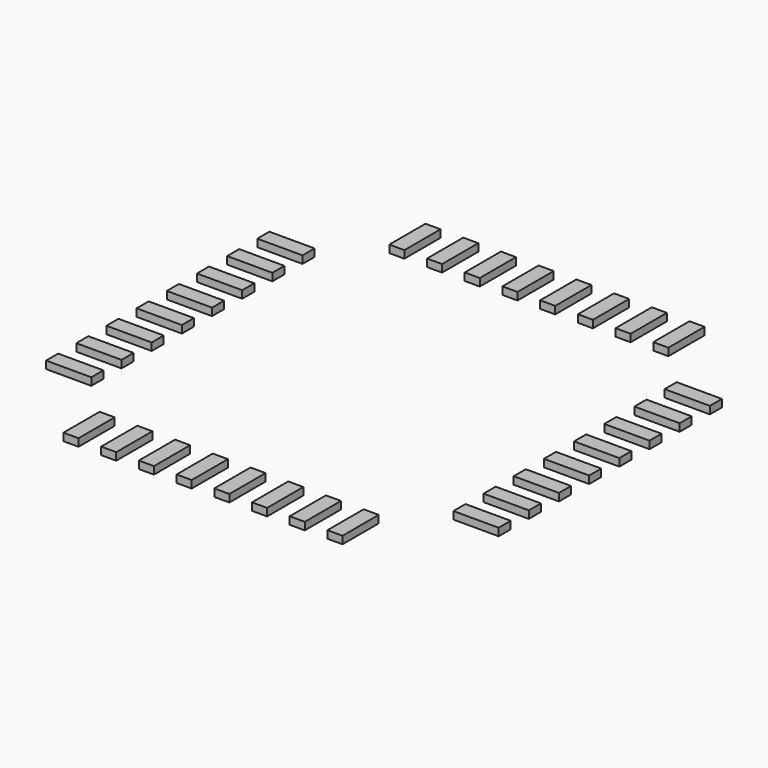
from build123d import *

# Parameters (mm, degrees)
BOX043_W                = 0.2
BOX043_H                = 0.6
BOX043_DEPTH            = 0.1
ARRAY014_X_COUNT        = 8
ARRAY014_X_PITCH        = 0.5
ARRAY014_Y_COUNT        = 2
ARRAY014_Y_PITCH        = 5.4
LINK002_PLACEMENT_ANGLE = 90


with BuildPart() as array014:
    # Box043 → Box043 (new body)
    with BuildSketch(Plane(origin=(-1.85, 2.4, 0), x_dir=(1, 0, 0), z_dir=(0, 0, 1))):
        with Locations((0.1, 0.3)):
            Rectangle(BOX043_W, BOX043_H)
    extrude(amount=BOX043_DEPTH)

    # Array014 X: Array014 ×8


with BuildPart() as array014_1:
    add(array014.part)
    with Locations(*[(i * ARRAY014_X_PITCH, 0, 0) for i in range(1, ARRAY014_X_COUNT)]):
        add(array014.part)

    # Array014 Y: Array014 ×2


with BuildPart() as array014_2:
    add(array014_1.part)
    with Locations(*[(0, -i * ARRAY014_Y_PITCH, 0) for i in range(1, ARRAY014_Y_COUNT)]):
        add(array014_1.part)


with BuildPart() as array020:
    # Link002 base: copy of Array014
    add(array014_2.part)


with BuildPart() as array020_1:
    # Link002 placement: moved
    add(array020.part.rotate(Axis((0, 0, 0), (0, 0, 1)), LINK002_PLACEMENT_ANGLE))


with BuildPart() as pins005:
    # Fusion027 base: copy of Array014
    add(array014_2.part)

    # Fusion027: union Array020
    add(array020_1.part)


solid = pins005.part
